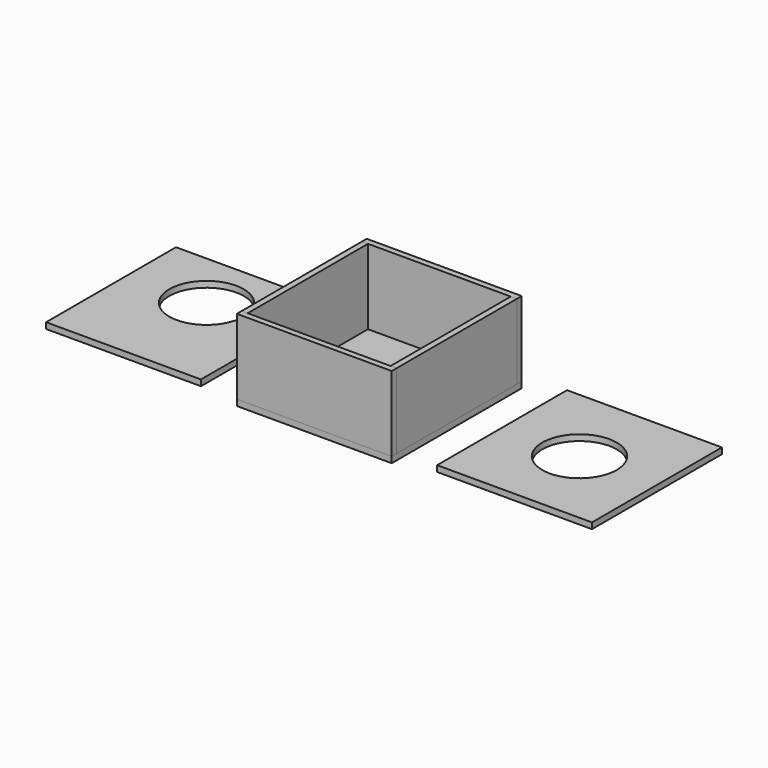
from build123d import *

# Parameters (mm, degrees)
F3_DEPTH = 100
F2_W     = 8
F2_H     = 200
F4_DEPTH = 100
F2_W_2   = 190
F5_DEPTH = 8
F2_W_3   = 206
F2_H_2   = 216
F2_R     = 49.5
F6_DEPTH = 8
F7_DEPTH = 8


with BuildPart() as f3:
    # F2 (on Top) → F3 (new body)
    with BuildSketch(Plane.XY):
        Polygon((-110.0365072489, 88.2625139453), (-102.0365072489, 88.2625139453), (87.9634927511, 88.2625139453), (95.9634927511, 88.2625139453), (95.9634927511, 96.2625139453), (-110.0365072489, 96.2625139453), align=None)
    extrude(amount=F3_DEPTH)


with BuildPart() as f3b:
    # F2 (on Top) → F3, piece 2 (new body)
    with BuildSketch(Plane.XY):
        Polygon((87.9634927511, -111.7374860547), (-102.0365072489, -111.7374860547), (-110.0365072489, -111.7374860547), (-110.0365072489, -119.7374860547), (95.9634927511, -119.7374860547), (95.9634927511, -111.7374860547), align=None)
    extrude(amount=F3_DEPTH)


with BuildPart() as f4:
    # F2 (on Top) → F4 (new body)
    with BuildSketch(Plane.XY):
        with Locations((-106.0365072489, -11.7374860547)):
            Rectangle(F2_W, F2_H)
    extrude(amount=F4_DEPTH)


with BuildPart() as f4b:
    # F2 (on Top) → F4, piece 2 (new body)
    with BuildSketch(Plane.XY):
        with Locations((91.9634927511, -11.7374860547)):
            Rectangle(F2_W, F2_H)
    extrude(amount=F4_DEPTH)


with BuildPart() as f5:
    # F2 (on Top) → F5 (new body)
    with BuildSketch(Plane.XY):
        with Locations((91.9634927511, -11.7374860547)):
            Rectangle(F2_W, F2_H)
        Polygon((-110.0365072489, 88.2625139453), (-102.0365072489, 88.2625139453), (87.9634927511, 88.2625139453), (95.9634927511, 88.2625139453), (95.9634927511, 96.2625139453), (-110.0365072489, 96.2625139453), align=None)
        with Locations((-106.0365072489, -11.7374860547)):
            Rectangle(F2_W, F2_H)
        Polygon((87.9634927511, -111.7374860547), (-102.0365072489, -111.7374860547), (-110.0365072489, -111.7374860547), (-110.0365072489, -119.7374860547), (95.9634927511, -119.7374860547), (95.9634927511, -111.7374860547), align=None)
        with Locations((-7.0365072489, -11.7374860547)):
            Rectangle(F2_W_2, F2_H)
    extrude(amount=-F5_DEPTH)


with BuildPart() as f6:
    # F2 (on Top) → F6 (new body)
    with BuildSketch(Plane.XY):
        with Locations((-260.3030354977, -12.2621608973)):
            Rectangle(F2_W_3, F2_H_2)
        with Locations((-260.3030354977, 17.7378391027)):
            Circle(F2_R, mode=Mode.SUBTRACT)
    extrude(amount=F6_DEPTH)


with BuildPart() as f7:
    # F2 (on Top) → F7 (new body)
    with BuildSketch(Plane.XY):
        with Locations((257.6088457108, -9.6550388336)):
            Rectangle(F2_W_3, F2_H_2)
        with Locations((257.6088457108, -9.6550388336)):
            Circle(F2_R, mode=Mode.SUBTRACT)
    extrude(amount=F7_DEPTH)


solid = Compound([f3.part, f3b.part, f4.part, f4b.part, f5.part, f6.part, f7.part])
